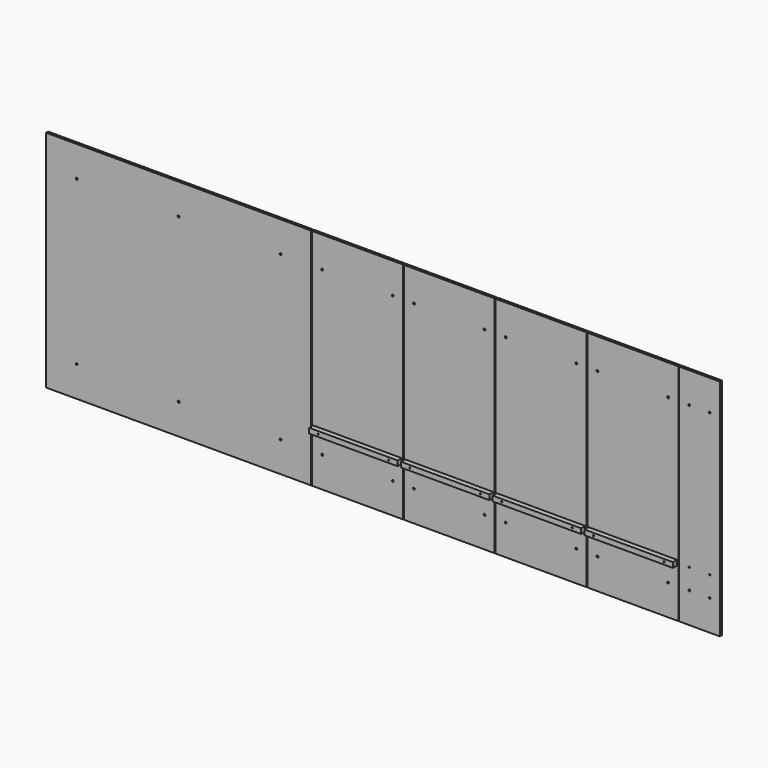
from build123d import *

# Parameters (mm, degrees)
F0_R     = 4.7625
F1_DEPTH = 12.7
F0_W     = 453.23125
F0_H     = 1117.6
F0_R_2   = 3.175
F3_DEPTH = 12.7
F4_DEPTH = 12.7
F5_DEPTH = 38.1


with BuildPart() as f1:
    # F0 (on Front) → F1 (new body)
    with BuildSketch(Plane.XZ):
        with BuildLine():
            Line((0, 558.8), (0, 152.4))
            Line((0, 152.4), (147.6375, 152.4))
            ThreePointArc((147.6375, 152.4), (152.4, 157.1625), (157.1625, 152.4))
            Line((157.1625, 152.4), (655.6375, 152.4))
            ThreePointArc((655.6375, 152.4), (660.4, 157.1625), (665.1625, 152.4))
            Line((665.1625, 152.4), (1163.6375, 152.4))
            ThreePointArc((1163.6375, 152.4), (1165.0324039546, 155.7675960454), (1168.4, 157.1625))
            ThreePointArc((1168.4, 157.1625), (1171.7675960454, 155.7675960454), (1173.1625, 152.4))
            Line((1173.1625, 152.4), (1320.8, 152.4))
            Line((1320.8, 152.4), (1320.8, 1117.6))
            Line((1320.8, 1117.6), (0, 1117.6))
            Line((0, 1117.6), (0, 558.8))
        make_face()
        with Locations((152.4, 965.2)):
            Circle(F0_R, mode=Mode.SUBTRACT)
        with BuildLine():
            ThreePointArc((655.6375, 965.2), (660.4, 969.9625), (665.1625, 965.2))
            ThreePointArc((665.1625, 965.2), (660.4, 960.4375), (655.6375, 965.2))
        make_face(mode=Mode.SUBTRACT)
        with BuildLine():
            ThreePointArc((1173.1625, 965.2), (1171.7675960454, 961.8324039546), (1168.4, 960.4375))
            ThreePointArc((1168.4, 960.4375), (1165.0324039546, 961.8324039546), (1163.6375, 965.2))
            ThreePointArc((1163.6375, 965.2), (1168.4, 969.9625), (1173.1625, 965.2))
        make_face(mode=Mode.SUBTRACT)
        with BuildLine():
            Line((0, 152.4), (0, 0))
            Line((0, 0), (1320.8, 0))
            Line((1320.8, 0), (1320.8, 152.4))
            Line((1320.8, 152.4), (1173.1625, 152.4))
            ThreePointArc((1173.1625, 152.4), (1168.4, 147.6375), (1163.6375, 152.4))
            Line((1163.6375, 152.4), (665.1625, 152.4))
            ThreePointArc((665.1625, 152.4), (660.4, 147.6375), (655.6375, 152.4))
            Line((655.6375, 152.4), (157.1625, 152.4))
            ThreePointArc((157.1625, 152.4), (152.4, 147.6375), (147.6375, 152.4))
            Line((147.6375, 152.4), (0, 152.4))
        make_face()
    extrude(amount=F1_DEPTH)


with BuildPart() as f1b:
    # F0 (on Front) → F1, piece 2 (new body)
    with BuildSketch(Plane.XZ):
        with BuildLine():
            Line((1324.76875, 152.2759159598), (1324.76875, 0))
            Line((1324.76875, 0), (1778, 0))
            Line((1778, 0), (1778, 152.4))
            Line((1778, 152.4), (1778, 254))
            Line((1778, 254), (1771.65, 254))
            Line((1771.65, 254), (1771.65, 241.3))
            Line((1771.65, 241.3), (1375.568598456, 241.3))
            Line((1375.568598456, 241.3), (1375.568598456, 157.1625))
            ThreePointArc((1375.568598456, 157.1625), (1378.9361945014, 155.7675960454), (1380.331098456, 152.4))
            ThreePointArc((1380.331098456, 152.4), (1375.5744148997, 147.6375035518), (1370.8061126632, 152.3883671212))
            Line((1370.8061126632, 152.3883671212), (1324.76875, 152.2759159598))
        make_face()
        with Locations((1727.2, 152.4)):
            Circle(F0_R, mode=Mode.SUBTRACT)
    extrude(amount=F1_DEPTH)

    # F0 (on Front) → F4 (join)
    with BuildSketch(Plane.XZ):
        Polygon((1778, 1117.6), (1324.76875, 1117.6), (1324.76875, 254), (1331.11875, 254), (1331.11875, 266.7), (1375.568598456, 266.7), (1771.65, 266.7), (1771.65, 254), (1778, 254), align=None)
        with Locations((1375.568598456, 965.2)):
            Circle(F0_R, mode=Mode.SUBTRACT)
        with Locations((1727.2, 965.2)):
            Circle(F0_R, mode=Mode.SUBTRACT)
        with BuildLine():
            Line((1324.76875, 254), (1324.76875, 152.2759159598))
            Line((1324.76875, 152.2759159598), (1370.8061126632, 152.3883671212))
            ThreePointArc((1370.8061126632, 152.3883671212), (1372.1968920753, 155.7634806871), (1375.568598456, 157.1625))
            Line((1375.568598456, 157.1625), (1375.568598456, 241.3))
            Line((1375.568598456, 241.3), (1331.11875, 241.3))
            Line((1331.11875, 241.3), (1331.11875, 254))
            Line((1331.11875, 254), (1324.76875, 254))
        make_face()
    extrude(amount=F4_DEPTH)


with BuildPart() as f1c:
    # F0 (on Front) → F1, piece 3 (new body)
    with BuildSketch(Plane.XZ):
        with Locations((2008.584375, 558.8)):
            Rectangle(F0_W, F0_H)
        with Locations((1832.768598456, 152.4)):
            Circle(F0_R, mode=Mode.SUBTRACT)
        with Locations((2184.4, 152.4)):
            Circle(F0_R, mode=Mode.SUBTRACT)
        Polygon((2228.85, 254), (2228.85, 241.3), (1788.31875, 241.3), (1788.31875, 266.7), (2228.85, 266.7), align=None, mode=Mode.SUBTRACT)
        with Locations((1832.768598456, 965.2)):
            Circle(F0_R, mode=Mode.SUBTRACT)
        with Locations((2184.4, 965.2)):
            Circle(F0_R, mode=Mode.SUBTRACT)
    extrude(amount=F1_DEPTH)


with BuildPart() as f1d:
    # F0 (on Front) → F1, piece 4 (new body)
    with BuildSketch(Plane.XZ):
        with Locations((2465.784375, 558.8)):
            Rectangle(F0_W, F0_H)
        with Locations((2289.968598456, 152.4)):
            Circle(F0_R, mode=Mode.SUBTRACT)
        with Locations((2641.6, 152.4)):
            Circle(F0_R, mode=Mode.SUBTRACT)
        Polygon((2686.05, 254), (2686.05, 241.3), (2245.51875, 241.3), (2245.51875, 266.7), (2686.05, 266.7), align=None, mode=Mode.SUBTRACT)
        with Locations((2289.968598456, 965.2)):
            Circle(F0_R, mode=Mode.SUBTRACT)
        with Locations((2641.6, 965.2)):
            Circle(F0_R, mode=Mode.SUBTRACT)
    extrude(amount=F1_DEPTH)


with BuildPart() as f1e:
    # F0 (on Front) → F1, piece 5 (new body)
    with BuildSketch(Plane.XZ):
        with Locations((2922.984375, 558.8)):
            Rectangle(F0_W, F0_H)
        with Locations((2747.168598456, 152.4)):
            Circle(F0_R, mode=Mode.SUBTRACT)
        with Locations((3098.8, 152.4)):
            Circle(F0_R, mode=Mode.SUBTRACT)
        Polygon((3143.25, 254), (3143.25, 241.3), (2702.71875, 241.3), (2702.71875, 266.7), (3143.25, 266.7), align=None, mode=Mode.SUBTRACT)
        with Locations((2747.168598456, 965.2)):
            Circle(F0_R, mode=Mode.SUBTRACT)
        with Locations((3098.8, 965.2)):
            Circle(F0_R, mode=Mode.SUBTRACT)
    extrude(amount=F1_DEPTH)


with BuildPart() as f1f:
    # F0 (on Front) → F1, piece 6 (new body)
    with BuildSketch(Plane.XZ):
        Polygon((3153.56875, 1117.6), (3153.56875, 0), (3356.76875, 0), (3356.76875, 152.4), (3356.76875, 965.2), (3356.76875, 1117.6), align=None)
        with Locations((3204.368598456, 152.4)):
            Circle(F0_R, mode=Mode.SUBTRACT)
        with Locations((3305.96875, 152.4)):
            Circle(F0_R, mode=Mode.SUBTRACT)
        with Locations((3204.368598456, 254)):
            Circle(F0_R_2, mode=Mode.SUBTRACT)
        with Locations((3204.368598456, 965.2)):
            Circle(F0_R, mode=Mode.SUBTRACT)
        with Locations((3305.96875, 965.2)):
            Circle(F0_R, mode=Mode.SUBTRACT)
    extrude(amount=F1_DEPTH)

    # F2 (on face) → F3 (cut)
    with BuildSketch(Plane.XZ.offset(12.7)):
        with BuildLine():
            ThreePointArc((3309.143598456, 254), (3305.968598456, 257.175), (3302.793598456, 254))
            ThreePointArc((3302.793598456, 254), (3305.968598456, 250.825), (3309.143598456, 254))
        make_face()
    extrude(amount=-F3_DEPTH, mode=Mode.SUBTRACT)


with BuildPart() as f5:
    # F0 (on Front) → F5 (new body)
    with BuildSketch(Plane.XZ):
        with BuildLine():
            Line((1730.375, 254), (1771.65, 254))
            Line((1771.65, 254), (1771.65, 266.7))
            Line((1771.65, 266.7), (1375.568598456, 266.7))
            Line((1375.568598456, 266.7), (1375.568598456, 257.175))
            ThreePointArc((1375.568598456, 257.175), (1377.8136624863, 256.2450640303), (1378.743598456, 254))
            Line((1378.743598456, 254), (1724.025, 254))
            ThreePointArc((1724.025, 254), (1727.2, 257.175), (1730.375, 254))
        make_face()
        with BuildLine():
            Line((1331.11875, 266.7), (1331.11875, 254))
            Line((1331.11875, 254), (1331.11875, 241.3))
            Line((1331.11875, 241.3), (1375.568598456, 241.3))
            Line((1375.568598456, 241.3), (1375.568598456, 250.825))
            ThreePointArc((1375.568598456, 250.825), (1372.393598456, 254), (1375.568598456, 257.175))
            Line((1375.568598456, 257.175), (1375.568598456, 266.7))
            Line((1375.568598456, 266.7), (1331.11875, 266.7))
        make_face()
        with BuildLine():
            Line((1375.568598456, 250.825), (1375.568598456, 241.3))
            Line((1375.568598456, 241.3), (1771.65, 241.3))
            Line((1771.65, 241.3), (1771.65, 254))
            Line((1771.65, 254), (1730.375, 254))
            ThreePointArc((1730.375, 254), (1727.2, 250.825), (1724.025, 254))
            Line((1724.025, 254), (1378.743598456, 254))
            ThreePointArc((1378.743598456, 254), (1377.8136624863, 251.7549359697), (1375.568598456, 250.825))
        make_face()
    extrude(amount=F5_DEPTH)


with BuildPart() as f5b:
    # F0 (on Front) → F5, piece 2 (new body)
    with BuildSketch(Plane.XZ):
        Polygon((1788.31875, 241.3), (2228.85, 241.3), (2228.85, 254), (2228.85, 266.7), (1788.31875, 266.7), align=None)
        with Locations((1832.768598456, 254)):
            Circle(F0_R_2, mode=Mode.SUBTRACT)
        with Locations((2184.4, 254)):
            Circle(F0_R_2, mode=Mode.SUBTRACT)
    extrude(amount=F5_DEPTH)


with BuildPart() as f5c:
    # F0 (on Front) → F5, piece 3 (new body)
    with BuildSketch(Plane.XZ):
        Polygon((2245.51875, 241.3), (2686.05, 241.3), (2686.05, 254), (2686.05, 266.7), (2245.51875, 266.7), align=None)
        with Locations((2289.968598456, 254)):
            Circle(F0_R_2, mode=Mode.SUBTRACT)
        with Locations((2641.6, 254)):
            Circle(F0_R_2, mode=Mode.SUBTRACT)
    extrude(amount=F5_DEPTH)


with BuildPart() as f5d:
    # F0 (on Front) → F5, piece 4 (new body)
    with BuildSketch(Plane.XZ):
        Polygon((2702.71875, 241.3), (3143.25, 241.3), (3143.25, 254), (3143.25, 266.7), (2702.71875, 266.7), align=None)
        with Locations((2747.168598456, 254)):
            Circle(F0_R_2, mode=Mode.SUBTRACT)
        with Locations((3098.8, 254)):
            Circle(F0_R_2, mode=Mode.SUBTRACT)
    extrude(amount=F5_DEPTH)


solid = Compound([f1.part, f1b.part, f1c.part, f1d.part, f1e.part, f1f.part, f5.part, f5b.part, f5c.part, f5d.part])
